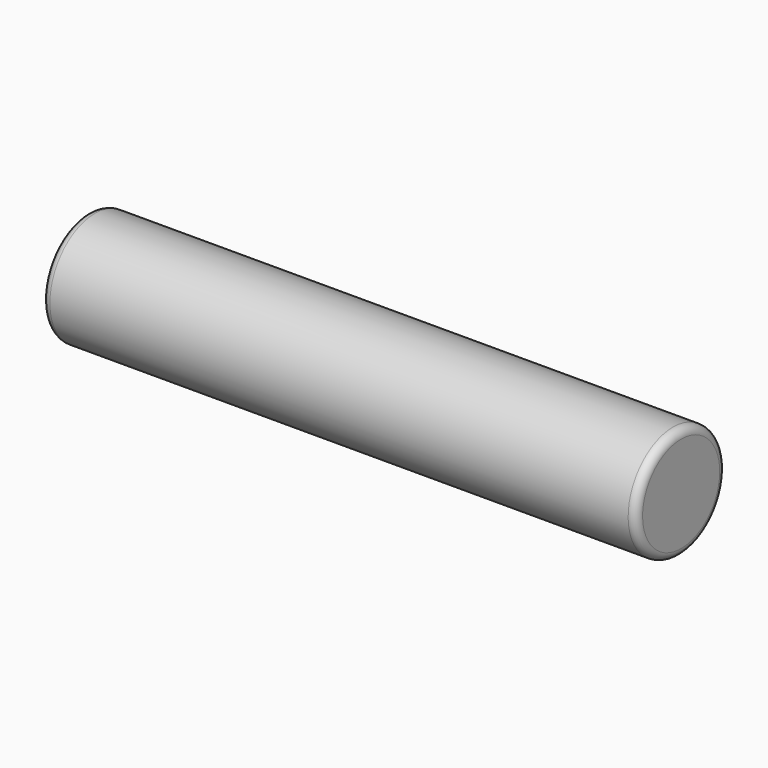
from build123d import *

# Parameters (mm, degrees)
F0_W   = 35
F0_H   = 3.5
F0_W_2 = 2
F2_R   = 0.5


with BuildPart() as f1:
    # F0 (on Front) → F1 (revolve)
    with BuildSketch(Plane.XZ):
        with Locations((-2.5, 1.75)):
            Rectangle(F0_W, F0_H)
        with Locations((16, 1.75)):
            Rectangle(F0_W_2, F0_H)
    revolve(axis=Axis((-1.5, 0, 0), (-1, 0, 0)))

    # F2
    f2_edges = [f1.edges().sort_by_distance(p)[0] for p in [
        (-20, 0, -3.5),
        (17, 0, -3.5),
    ]]
    fillet(f2_edges, radius=F2_R)


solid = f1.part
